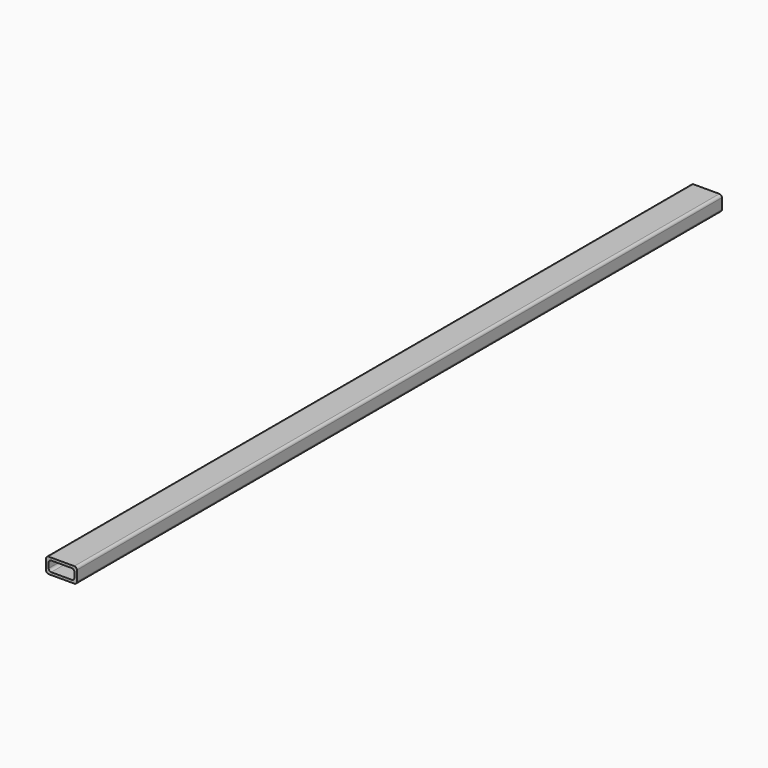
from build123d import *

# Parameters (mm, degrees)
F1_DEPTH = 1993.9


with BuildPart() as f1:
    # F0 (on Front) → F1 (new body)
    with BuildSketch(Plane.XZ):
        with BuildLine():
            ThreePointArc((0, 6.35), (1.859872, 1.859872), (6.35, 0))
            Line((6.35, 0), (69.85, 0))
            ThreePointArc((69.85, 0), (74.340128, 1.859872), (76.2, 6.35))
            Line((76.2, 6.35), (76.2, 31.75))
            ThreePointArc((76.2, 31.75), (74.340128, 36.240128), (69.85, 38.1))
            Line((69.85, 38.1), (6.35, 38.1))
            ThreePointArc((6.35, 38.1), (1.859872, 36.240128), (0, 31.75))
            Line((0, 31.75), (0, 6.35))
        make_face()
        with BuildLine():
            Line((63.5, 6.35), (12.7, 6.35))
            ThreePointArc((12.7, 6.35), (8.209872, 8.209872), (6.35, 12.7))
            Line((6.35, 12.7), (6.35, 25.4))
            ThreePointArc((6.35, 25.4), (8.209872, 29.890128), (12.7, 31.75))
            Line((12.7, 31.75), (63.5, 31.75))
            ThreePointArc((63.5, 31.75), (67.990128, 29.890128), (69.85, 25.4))
            Line((69.85, 25.4), (69.85, 12.7))
            ThreePointArc((69.85, 12.7), (67.990128, 8.209872), (63.5, 6.35))
        make_face(mode=Mode.SUBTRACT)
    extrude(amount=F1_DEPTH)


solid = f1.part
